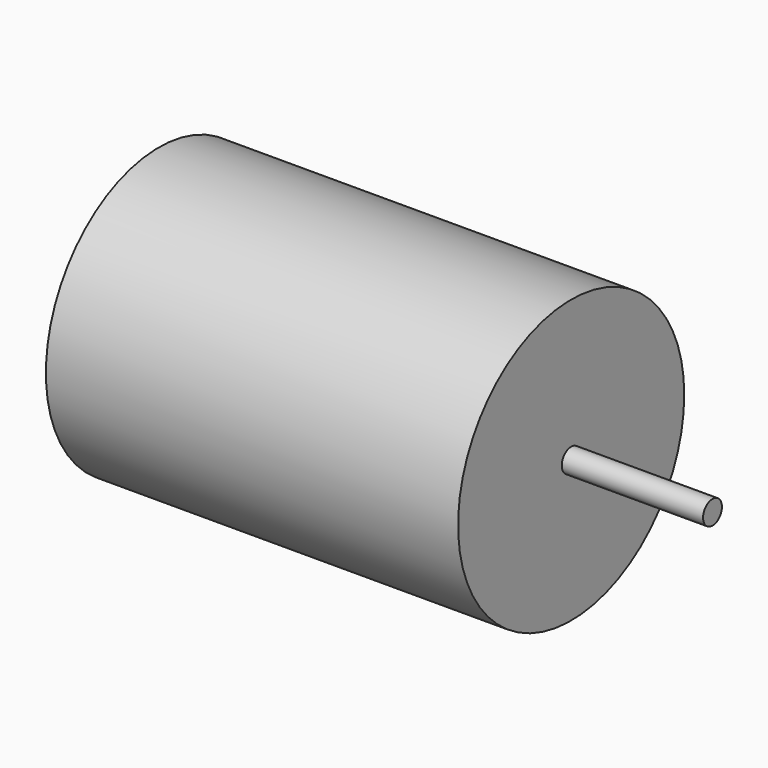
from build123d import *

# Parameters (mm, degrees)
F0_R     = 12
F1_DEPTH = 17.5
F2_R     = 1
F3_DEPTH = 12


with BuildPart() as f1:
    # F0 (on Right) → F1 (new body, symmetric)
    with BuildSketch(Plane.YZ):
        Circle(F0_R)
    extrude(amount=F1_DEPTH, both=True)


with BuildPart() as f3:
    # F2 (on face) → F3 (new body)
    with BuildSketch(Plane.YZ.offset(17.5)):
        Circle(F2_R)
    extrude(amount=F3_DEPTH)


solid = Compound([f1.part, f3.part])
